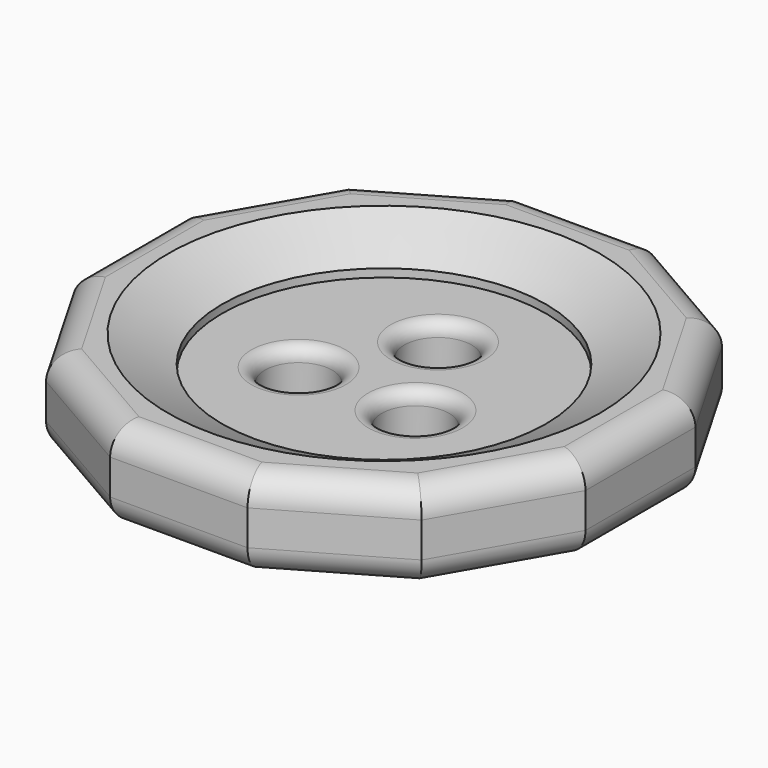
from build123d import *

# Parameters (mm, degrees)
F0_R     = 6
F1_DEPTH = 3.3
F0_R_2   = 1.25
F2_DEPTH = 2
F3_R     = 1
F4_SIZE2 = 2
F4_SIZE  = 1
F5_R     = 0.5


with BuildPart() as f1:
    # F0 (on Top) → F1 (new body)
    with BuildSketch(Plane.XY):
        Polygon((2.5455173281, 9.5), (-2.5455173281, 9.5), (-6.9544826719, 6.9544826719), (-9.5, 2.5455173281), (-9.5, -2.5455173281), (-6.9544826719, -6.9544826719), (-2.5455173281, -9.5), (2.5455173281, -9.5), (6.9544826719, -6.9544826719), (9.5, -2.5455173281), (9.5, 2.5455173281), (6.9544826719, 6.9544826719), align=None)
        Circle(F0_R, mode=Mode.SUBTRACT)
    extrude(amount=F1_DEPTH)

    # F0 (on Top) → F2 (join)
    with BuildSketch(Plane.XY):
        Circle(F0_R)
        with Locations((-2.1650635095, -1.25)):
            Circle(F0_R_2, mode=Mode.SUBTRACT)
        with Locations((2.1650635095, -1.25)):
            Circle(F0_R_2, mode=Mode.SUBTRACT)
        with Locations((0, 2.5)):
            Circle(F0_R_2, mode=Mode.SUBTRACT)
    extrude(amount=F2_DEPTH)

    # F3
    f3_edges = [f1.edges().sort_by_distance(p)[0] for p in [
        (-8.227241, -4.75, 3.3),
        (-4.75, -8.227241, 3.3),
        (0, -9.5, 3.3),
        (4.75, -8.227241, 3.3),
        (8.227241, -4.75, 3.3),
        (9.5, 0, 3.3),
        (8.227241, 4.75, 3.3),
        (4.75, 8.227241, 3.3),
        (0, 9.5, 3.3),
        (-4.75, 8.227241, 3.3),
        (-8.227241, 4.75, 3.3),
        (-9.5, 0, 3.3),
        (-8.227241, -4.75, 0),
        (-4.75, -8.227241, 0),
        (0, -9.5, 0),
        (4.75, -8.227241, 0),
        (8.227241, -4.75, 0),
        (9.5, 0, 0),
        (8.227241, 4.75, 0),
        (4.75, 8.227241, 0),
        (0, 9.5, 0),
        (-4.75, 8.227241, 0),
        (-8.227241, 4.75, 0),
        (-9.5, 0, 0),
    ]]
    fillet(f3_edges, radius=F3_R)

    # F4
    f4_edges = [f1.edges().sort_by_distance(p)[0] for p in [
        (-6, 0, 3.3),
    ]]
    f4_side = f1.faces().sort_by_distance((-6, 0, 2.65))[0]
    chamfer(f4_edges, length=F4_SIZE, length2=F4_SIZE2, reference=f4_side)

    # F5
    f5_edges = [f1.edges().sort_by_distance(p)[0] for p in [
        (-1.25, 2.5, 2),
        (0.915064, -1.25, 2),
        (-3.415064, -1.25, 2),
        (0.915064, -1.25, 0),
        (-3.415064, -1.25, 0),
        (-1.25, 2.5, 0),
    ]]
    fillet(f5_edges, radius=F5_R)


solid = f1.part
